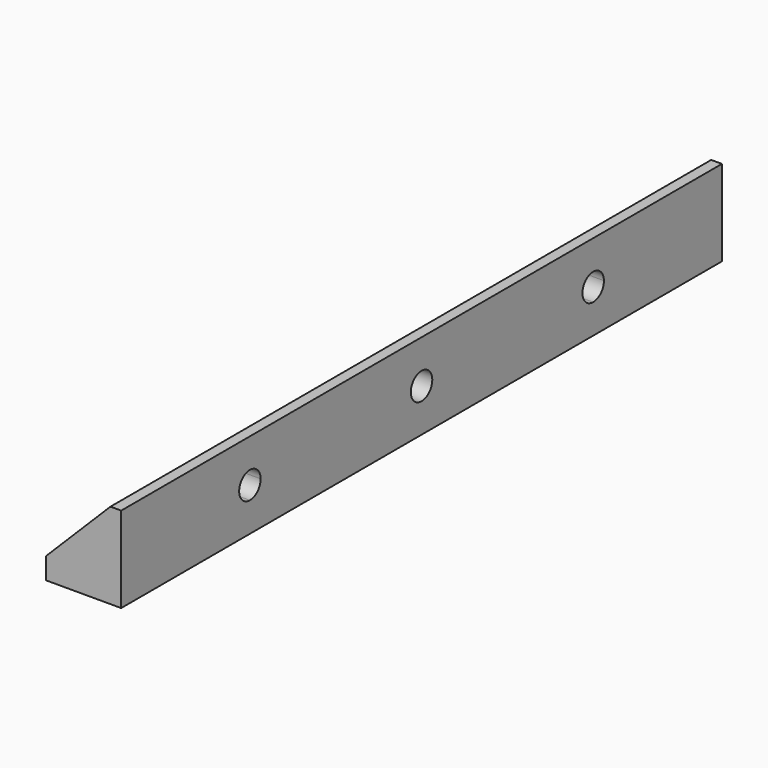
from build123d import *

# Parameters (mm, degrees)
F0_W     = 7
F0_H     = 70
F1_DEPTH = 8
F2_SIZE  = 6
F3_R     = 1.25
F4_DEPTH = 2.7
F5_R     = 1.25
F6_DEPTH = 2.7
F5_W     = 0.2
F5_H     = 0.5
F7_DEPTH = 0.15


with BuildPart() as f1:
    # F0 (on Top) → F1 (new body)
    with BuildSketch(Plane.XY):
        with Locations((-11.251043, -3.17281)):
            Rectangle(F0_W, F0_H)
    extrude(amount=F1_DEPTH)

    # F2
    f2_edges = [f1.edges().sort_by_distance(p)[0] for p in [
        (-14.751043, -3.17281, 8),
    ]]
    chamfer(f2_edges, length=F2_SIZE)

    # F3 (on face) → F4 (cut)
    with BuildSketch(Plane.YZ.offset(-7.751043)):
        with BuildLine():
            ThreePointArc((-23.17281, 2.75), (-22.288927, 3.116117), (-21.92281, 4))
            ThreePointArc((-21.92281, 4), (-24.056694, 4.883883), (-23.17281, 2.75))
        make_face()
        with Locations((-3.17281, 4)):
            Circle(F3_R)
        with BuildLine():
            ThreePointArc((16.82719, 2.75), (17.711073, 3.116117), (18.07719, 4))
            ThreePointArc((18.07719, 4), (15.943306, 4.883883), (16.82719, 2.75))
        make_face()
    extrude(amount=-F4_DEPTH, mode=Mode.SUBTRACT)

    # F5 (on face) → F6 (cut)
    with BuildSketch(Plane(origin=(0, 0, 0), x_dir=(1, 0, 0), z_dir=(0, 0, -1))):
        with Locations((-11.751043, -16.82719)):
            Circle(F5_R)
        with Locations((-11.751043, 3.17281)):
            Circle(F5_R)
        with Locations((-11.751043, 23.17281)):
            Circle(F5_R)
    extrude(amount=-F6_DEPTH, mode=Mode.SUBTRACT)

    # F5 (on face) → F7 (cut)
    with BuildSketch(Plane(origin=(0, 0, 0), x_dir=(1, 0, 0), z_dir=(0, 0, -1))):
        with Locations((-11.851043, -12.07719)):
            Rectangle(F5_W, F5_H)
    extrude(amount=-F7_DEPTH, mode=Mode.SUBTRACT)


solid = f1.part
